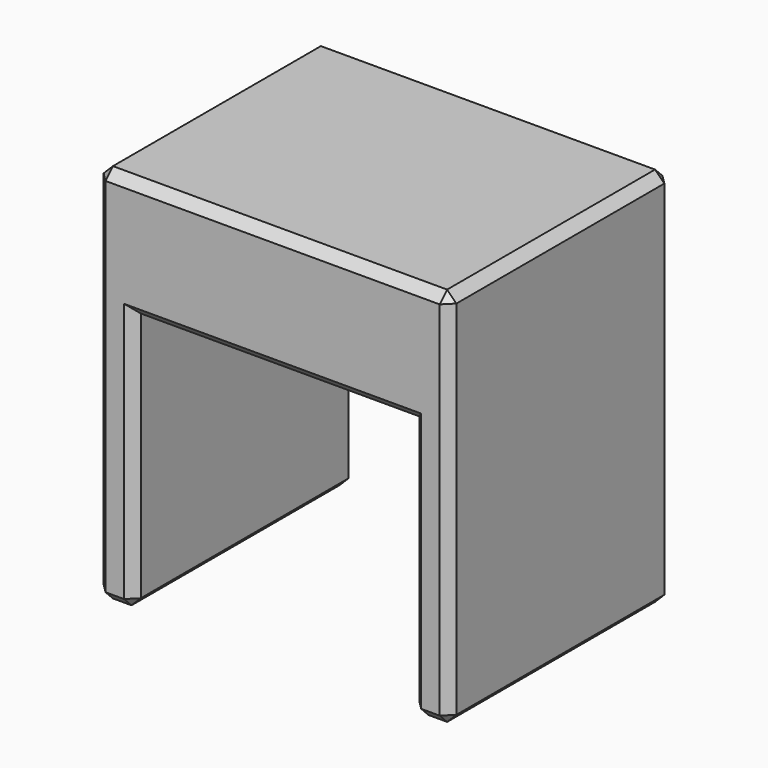
from build123d import *

# Parameters (mm, degrees)
BOX003_W     = 14.2
BOX003_H     = 5
BOX003_DEPTH = 10.2
BOX005_W     = 30
BOX005_H     = 30
BOX005_DEPTH = 28
BOX006_W     = 12
BOX006_H     = 30
BOX006_DEPTH = 8.2
BOX007_W     = 38
BOX007_H     = 30
BOX007_DEPTH = 41
CHAMFER_SIZE = 1


with BuildPart() as cube003:
    # Box003 → Box003 (new body)
    with BuildSketch(Plane(origin=(-7.1, 0, 28), x_dir=(1, 0, 0), z_dir=(0, 0, 1))):
        with Locations((7.1, 2.5)):
            Rectangle(BOX003_W, BOX003_H)
    extrude(amount=BOX003_DEPTH)


with BuildPart() as cube005:
    # Box005 → Box005 (new body)
    with BuildSketch(Plane(origin=(-15, 0, 0), x_dir=(1, 0, 0), z_dir=(0, 0, 1))):
        with Locations((15, 15)):
            Rectangle(BOX005_W, BOX005_H)
    extrude(amount=BOX005_DEPTH)


with BuildPart() as fusion:
    # Box006 → Box006 (new body)
    with BuildSketch(Plane(origin=(-6, 0, 28), x_dir=(1, 0, 0), z_dir=(0, 0, 1))):
        with Locations((6, 15)):
            Rectangle(BOX006_W, BOX006_H)
    extrude(amount=BOX006_DEPTH)

    # Fusion: union Cube005
    add(cube005.part)


with BuildPart() as obj1:
    # Box007 → Box007 (new body)
    with BuildSketch(Plane(origin=(-19, 0, 0), x_dir=(1, 0, 0), z_dir=(0, 0, 1))):
        with Locations((19, 15)):
            Rectangle(BOX007_W, BOX007_H)
    extrude(amount=BOX007_DEPTH)

    # Cut: cut Fusion
    add(fusion.part, mode=Mode.SUBTRACT)

    # Fusion003: union Cube003
    add(cube003.part)

    # Chamfer
    chamfer_edges = [obj1.edges().sort_by_distance(p)[0] for p in [
        (-6.55, 0, 28),
        (6.55, 0, 28),
        (0, 0, 28),
        (-17, 0, 0),
        (-15, 0, 14),
        (-11.05, 0, 28),
        (11.05, 0, 28),
        (15, 0, 14),
        (17, 0, 0),
        (19, 0, 20.5),
        (0, 0, 41),
        (-19, 0, 20.5),
        (-10.5, 30, 28),
        (10.5, 30, 28),
        (-17, 30, 0),
        (-15, 15, 0),
        (-19, 15, 0),
        (-15, 30, 14),
        (15, 30, 14),
        (15, 15, 0),
        (17, 30, 0),
        (19, 15, 0),
        (19, 15, 41),
        (19, 30, 20.5),
        (-19, 15, 41),
        (0, 30, 41),
        (-19, 30, 20.5),
        (-6, 30, 32.1),
        (0, 30, 36.2),
        (6, 30, 32.1),
    ]]
    chamfer(chamfer_edges, length=CHAMFER_SIZE)


solid = obj1.part
